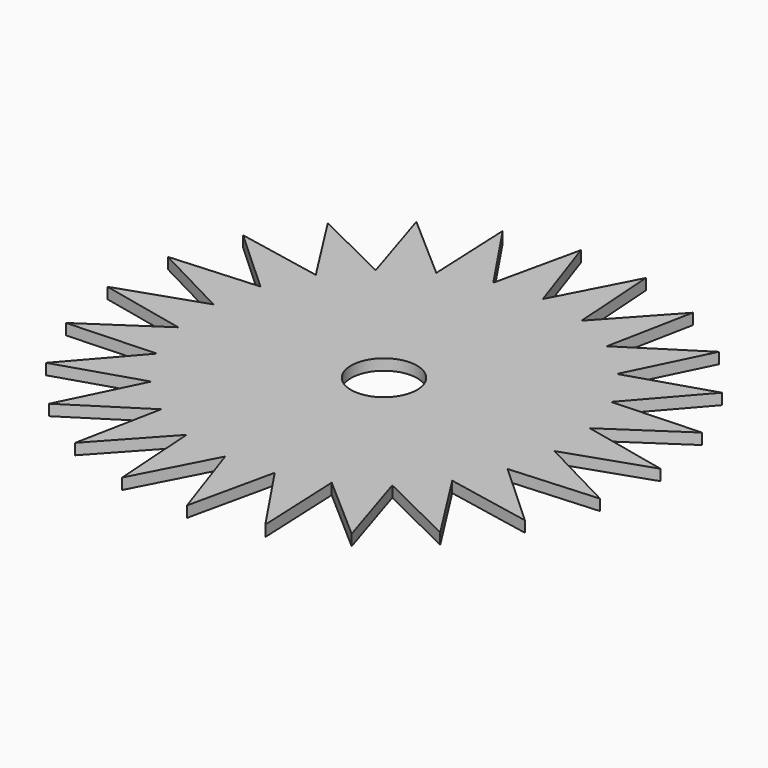
from build123d import *

# Parameters (mm, degrees)
F0_R     = 9.525
F1_DEPTH = 3.175


with BuildPart() as f1:
    # F0 (on Top) → F1 (new body)
    with BuildSketch(Plane.XY):
        Polygon((34.528738, 68.326658), (17.376506, 49.592707), (15.66796, 74.935178), (3.948879, 52.400247), (-4.260564, 76.436991), (-9.747858, 51.636797), (-23.898738, 72.729748), (-22.780294, 47.354384), (-41.908252, 64.066093), (-34.260291, 39.844849), (-57.061788, 51.03644), (-43.405506, 29.619953), (-68.326658, 34.528738), (-49.592707, 17.376506), (-74.935178, 15.66796), (-52.400247, 3.948879), (-76.436991, -4.260564), (-51.636797, -9.747858), (-72.729748, -23.898738), (-47.354384, -22.780294), (-64.066093, -41.908252), (-39.844849, -34.260291), (-51.03644, -57.061788), (-29.619953, -43.405506), (-34.528738, -68.326658), (-17.376506, -49.592707), (-15.66796, -74.935178), (-3.948879, -52.400247), (4.260564, -76.436991), (9.747858, -51.636797), (23.898738, -72.729748), (22.780294, -47.354384), (41.908252, -64.066093), (34.260291, -39.844849), (57.061788, -51.03644), (43.405506, -29.619953), (68.326658, -34.528738), (49.592707, -17.376506), (74.935178, -15.66796), (52.400247, -3.948879), (76.436991, 4.260564), (51.636797, 9.747858), (72.729748, 23.898738), (47.354384, 22.780294), (64.066093, 41.908252), (39.844849, 34.260291), (51.03644, 57.061788), (29.619953, 43.405506), align=None)
        Circle(F0_R, mode=Mode.SUBTRACT)
    extrude(amount=F1_DEPTH)


solid = f1.part
